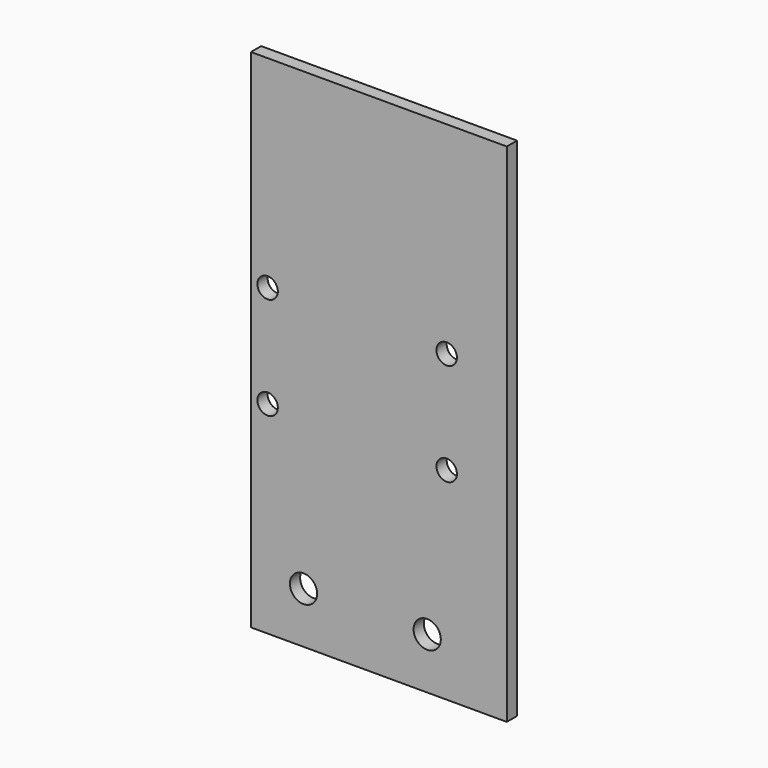
from build123d import *

# Parameters (mm, degrees)
F0_W     = 63.5
F0_H     = 125.73
F0_R     = 3.3782
F0_R_2   = 2.54
F1_DEPTH = 3.175


with BuildPart() as f1:
    # F0 (on Front) → F1 (new body)
    with BuildSketch(Plane.XZ):
        with Locations((1.726835, 50.165)):
            Rectangle(F0_W, F0_H)
        with Locations((-16.983794, 0)):
            Circle(F0_R, mode=Mode.SUBTRACT)
        with Locations((-25.895665, 37.465)):
            Circle(F0_R_2, mode=Mode.SUBTRACT)
        with Locations((13.716368, 0)):
            Circle(F0_R, mode=Mode.SUBTRACT)
        with Locations((18.554335, 37.465)):
            Circle(F0_R_2, mode=Mode.SUBTRACT)
        with Locations((-25.895665, 62.865)):
            Circle(F0_R_2, mode=Mode.SUBTRACT)
        with Locations((18.554335, 62.865)):
            Circle(F0_R_2, mode=Mode.SUBTRACT)
    extrude(amount=F1_DEPTH)


solid = f1.part
